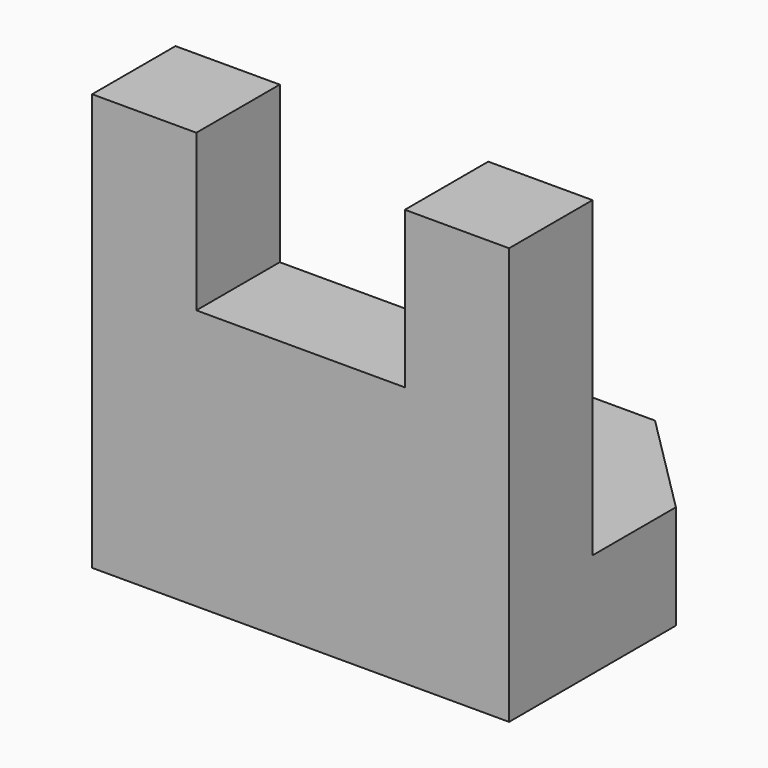
from build123d import *

# Parameters (mm, degrees)
F1_DEPTH = 20
F3_DEPTH = 20


with BuildPart() as f1:
    # F0 (on Front) → F1 (new body)
    with BuildSketch(Plane.XZ):
        Polygon((-20, 50), (-60, 50), (-60, 80), (-80, 80), (-80, 50), (-80, 0), (0, 0), (0, 50), (0, 80), (-20, 80), align=None)
    extrude(amount=F1_DEPTH)

    # F2 (on Top) → F3 (join)
    with BuildSketch(Plane.XY):
        Polygon((-80, 0), (0, 0), (0, 20), (-20, 40), (-60, 40), (-80, 20), align=None)
    extrude(amount=F3_DEPTH)


solid = f1.part
